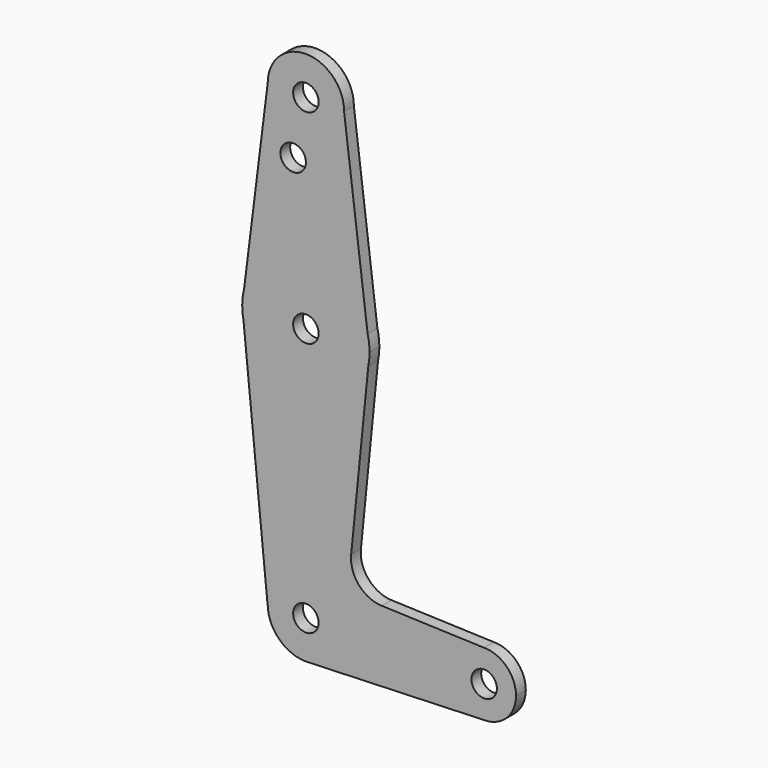
from build123d import *

# Parameters (mm, degrees)
F0_R     = 3.175
F1_DEPTH = 3.048


with BuildPart() as f1:
    # F0 (on Front) → F1 (new body)
    with BuildSketch(Plane.XZ):
        with BuildLine():
            Line((15.3865384615, 67.4076923077), (15.875, 63.5))
            ThreePointArc((15.875, 63.5), (15.7524112928, 65.4690514116), (15.3865384615, 67.4076923077))
        make_face()
        with BuildLine():
            Line((15.5606435644, 60.3564356436), (15.875, 63.5))
            Line((15.875, 63.5), (15.3865384615, 67.4076923077))
            ThreePointArc((15.3865384615, 67.4076923077), (0, 79.375), (-15.3865384615, 67.4076923077))
            Line((-15.3865384615, 67.4076923077), (-15.875, 63.5))
            Line((-15.875, 63.5), (-15.5652161214, 60.3791552277))
            ThreePointArc((-15.5652161214, 60.3791552277), (-0.0115875772, 47.625004229), (15.5606435644, 60.3564356436))
        make_face()
        with Locations((0, 63.5)):
            Circle(F0_R, mode=Mode.SUBTRACT)
        with BuildLine():
            ThreePointArc((15.5606435644, 60.3564356436), (15.7962153946, 61.9203784605), (15.875, 63.5))
            Line((15.875, 63.5), (15.5606435644, 60.3564356436))
        make_face()
        with BuildLine():
            ThreePointArc((-15.3865384615, 67.4076923077), (0, 79.375), (15.3865384615, 67.4076923077))
            Line((15.3865384615, 67.4076923077), (9.525, 114.3))
            ThreePointArc((9.525, 114.3), (0, 104.775), (-9.525, 114.3))
            Line((-9.525, 114.3), (-15.3865384615, 67.4076923077))
        make_face()
        with Locations((-3.175, 100.0252)):
            Circle(F0_R, mode=Mode.SUBTRACT)
        with BuildLine():
            Line((11.2835831424, 17.5858314242), (15.5606435644, 60.3564356436))
            ThreePointArc((15.5606435644, 60.3564356436), (-0.0115875772, 47.625004229), (-15.5652161214, 60.3791552277))
            Line((-15.5652161214, 60.3791552277), (-9.5718104076, 0))
            Line((-9.5718104076, 0), (-9.525, 0))
            ThreePointArc((-9.525, 0), (0, 9.525), (9.525, 0))
            ThreePointArc((9.525, 0), (6.9712901065, -6.4905114784), (0.6794904459, -9.5007324841))
            Line((0.6794904459, -9.5007324841), (44.45, -7.9375))
            ThreePointArc((44.45, -7.9375), (36.5125, 0), (44.45, 7.9375))
            Line((44.45, 7.9375), (18.9105730062, 8.8496223926))
            ThreePointArc((18.9105730062, 8.8496223926), (13.2053552395, 11.5661923774), (11.2835831424, 17.5858314242))
        make_face()
        with BuildLine():
            Line((-15.875, 63.5), (-15.3865384615, 67.4076923077))
            ThreePointArc((-15.3865384615, 67.4076923077), (-15.7524112928, 65.4690514116), (-15.875, 63.5))
        make_face()
        with BuildLine():
            ThreePointArc((-9.525, 114.3), (0, 104.775), (9.525, 114.3))
            ThreePointArc((9.525, 114.3), (0, 123.825), (-9.525, 114.3))
        make_face()
        with Locations((0, 114.3)):
            Circle(F0_R, mode=Mode.SUBTRACT)
        with BuildLine():
            ThreePointArc((-15.875, 63.5), (-15.7973641936, 61.9319089516), (-15.5652161214, 60.3791552277))
            Line((-15.5652161214, 60.3791552277), (-15.875, 63.5))
        make_face()
        with BuildLine():
            Line((-3.175, 0), (-9.525, 0))
            ThreePointArc((-9.525, 0), (-6.7351920908, -6.7351920908), (0, -9.525))
            Line((0, -9.525), (0.6794904459, -9.5007324841))
            ThreePointArc((0.6794904459, -9.5007324841), (6.9712901065, -6.4905114784), (9.525, 0))
            Line((9.525, 0), (3.175, 0))
            ThreePointArc((3.175, 0), (0, -3.175), (-3.175, 0))
        make_face()
        with BuildLine():
            ThreePointArc((9.525, 0), (0, 9.525), (-9.525, 0))
            Line((-9.525, 0), (-3.175, 0))
            ThreePointArc((-3.175, 0), (0, 3.175), (3.175, 0))
            Line((3.175, 0), (9.525, 0))
        make_face()
        with BuildLine():
            ThreePointArc((52.3875, 0), (50.0626600757, 5.6126600757), (44.45, 7.9375))
            ThreePointArc((44.45, 7.9375), (36.5125, 0), (44.45, -7.9375))
            ThreePointArc((44.45, -7.9375), (50.0626600757, -5.6126600757), (52.3875, 0))
        make_face()
        with Locations((44.45, 0)):
            Circle(F0_R, mode=Mode.SUBTRACT)
        with BuildLine():
            Line((0.6794904459, -9.5007324841), (0, -9.525))
            ThreePointArc((0, -9.525), (0.3399618281, -9.5189311877), (0.6794904459, -9.5007324841))
        make_face()
    extrude(amount=F1_DEPTH)


solid = f1.part
